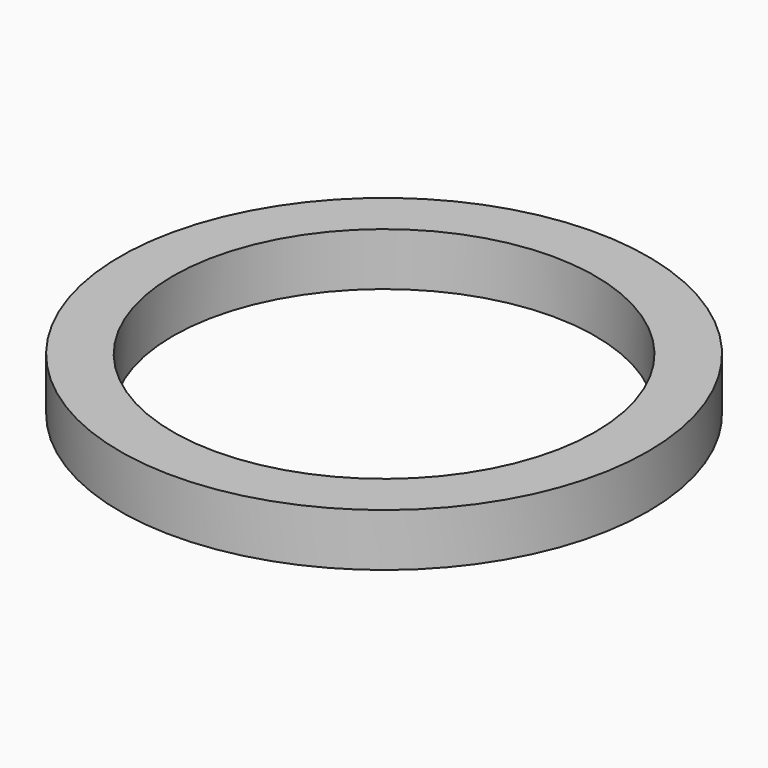
from build123d import *

# Parameters (mm, degrees)
SKETCH_R   = 5
SKETCH_R_2 = 4
PAD_DEPTH  = 1


with BuildPart() as part:
    # Sketch → Pad (new body)
    with BuildSketch(Plane.XY):
        Circle(SKETCH_R)
        Circle(SKETCH_R_2, mode=Mode.SUBTRACT)
    extrude(amount=PAD_DEPTH)


solid = part.part
